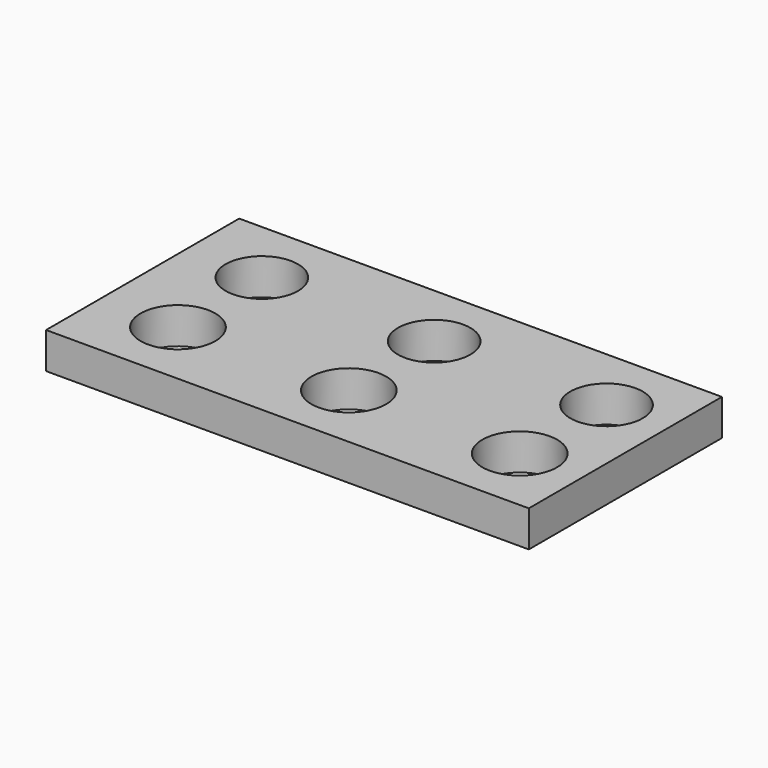
from build123d import *

# Parameters (mm, degrees)
F0_W     = 200
F0_H     = 100
F1_DEPTH = 15
F2_R     = 15
F3_DEPTH = 15.001
F4_R     = 15.498481
F5_DEPTH = 15.001
F6_DEPTH = 15.001


with BuildPart() as f1:
    # F0 (on Top) → F1 (new body)
    with BuildSketch(Plane.XY):
        with Locations((0.742927, -22.300308)):
            Rectangle(F0_W, F0_H)
    extrude(amount=F1_DEPTH)

    # F2 (on face) → F3 (cut, through all)
    with BuildSketch(Plane.XY.offset(15)):
        with Locations((-67.708292, 0)):
            Circle(F2_R)
        with Locations((3.691708, 0)):
            Circle(F2_R)
        with Locations((75.091708, 0)):
            Circle(F2_R)
    extrude(amount=-F3_DEPTH, mode=Mode.SUBTRACT)

    # F4 (on face) → F5 (cut, through all)
    with BuildSketch(Plane.XY.offset(15)):
        with Locations((-67.160375, -44.129718)):
            Circle(F4_R)
    extrude(amount=-F5_DEPTH, mode=Mode.SUBTRACT)

    # F4 (on face) → F6 (cut, through all)
    with BuildSketch(Plane.XY.offset(15)):
        with Locations((-67.160375, -44.129718)):
            Circle(F4_R)
        with Locations((3.639625, -44.129718)):
            Circle(F4_R)
        with Locations((74.439625, -44.129718)):
            Circle(F4_R)
    extrude(amount=-F6_DEPTH, mode=Mode.SUBTRACT)


solid = f1.part
